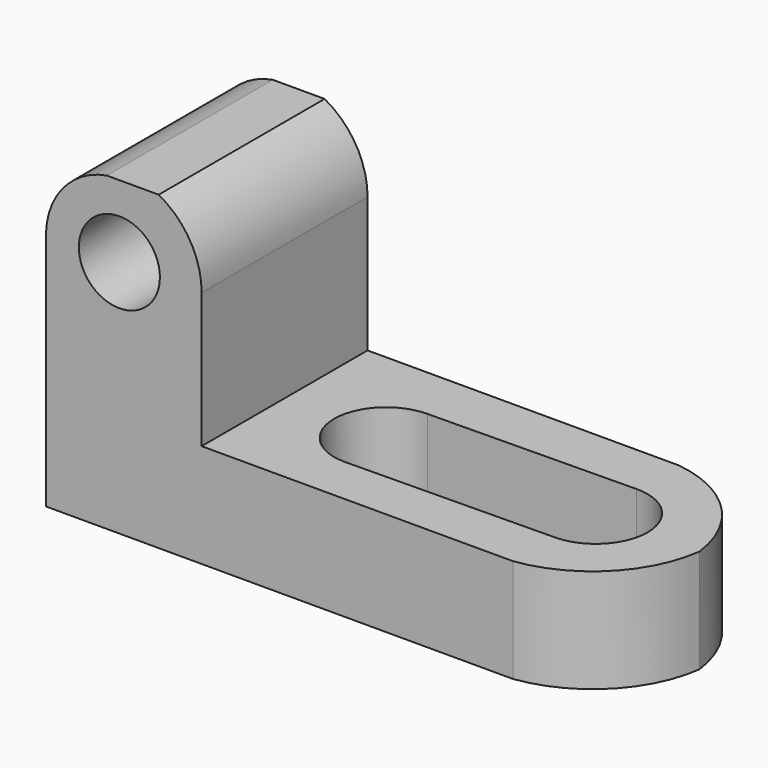
from build123d import *

# Parameters (mm, degrees)
F1_DEPTH = 25.4
F3_DEPTH = 12.7
F5_DEPTH = 12.7
F7_DEPTH = 25.4
F8_R     = 4.9638904574
F9_DEPTH = 25.4


with BuildPart() as f1:
    # F0 (on Front) → F1 (new body)
    with BuildSketch(Plane.XZ):
        Polygon((-69.85, 38.1), (-69.85, 0), (0, 0), (0, 12.7), (-50.8, 12.7), (-50.8, 38.1), align=None)
    extrude(amount=F1_DEPTH)

    # F2 (on face) → F3 (cut)
    with BuildSketch(Plane.XY.offset(12.7)):
        with BuildLine():
            ThreePointArc((-12.7, 0), (-4.1664394472, -4.1664394472), (0, -12.7))
            Line((0, -12.7), (0, 0))
            Line((0, 0), (-12.7, 0))
        make_face()
        with BuildLine():
            Line((0, -25.4), (0, -12.7))
            ThreePointArc((0, -12.7), (-4.1912343362, -21.2087656638), (-12.7, -25.4))
            Line((-12.7, -25.4), (0, -25.4))
        make_face()
    extrude(amount=-F3_DEPTH, mode=Mode.SUBTRACT)

    # F4 (on face) → F5 (cut)
    with BuildSketch(Plane.XY.offset(12.7)):
        with BuildLine():
            ThreePointArc((-38.0139607827, -19.3930226044), (-33.5795548322, -17.5032103821), (-31.75, -13.0436055246))
            ThreePointArc((-31.75, -13.0436055246), (-33.6098719395, -8.5534774641), (-38.1, -6.6936055246))
            ThreePointArc((-38.1, -6.6936055246), (-44.4498542683, -13.0866261206), (-38.0139607827, -19.3930226044))
        make_face()
        with BuildLine():
            ThreePointArc((-38.1, -6.6936055246), (-33.6098719395, -8.5534774641), (-31.75, -13.0436055246))
            ThreePointArc((-31.75, -13.0436055246), (-33.5795548322, -17.5032103821), (-38.0139607827, -19.3930226044))
            Line((-38.0139607827, -19.3930226044), (-12.7000078464, -19.05))
            ThreePointArc((-12.7000078464, -19.05), (-19.049854295, -12.7430166511), (-12.7860391738, -6.3505829196))
            Line((-12.7860391738, -6.3505829196), (-38.1, -6.6936055246))
        make_face()
        with BuildLine():
            ThreePointArc((-6.35, -12.7), (-8.240395127, -8.1795548475), (-12.7860391738, -6.3505829196))
            ThreePointArc((-12.7860391738, -6.3505829196), (-19.049854295, -12.7430166511), (-12.7000078464, -19.05))
            Line((-12.7000078464, -19.05), (-12.5279294485, -19.0476682117))
            ThreePointArc((-12.5279294485, -19.0476682117), (-8.1494424516, -17.1288741232), (-6.35, -12.7))
        make_face()
    extrude(amount=-F5_DEPTH, mode=Mode.SUBTRACT)

    # F6 (on face) → F7 (cut)
    with BuildSketch(Plane.XZ.offset(25.4)):
        with BuildLine():
            Line((-69.85, 38.1), (-69.85, 29.6156106257))
            ThreePointArc((-69.85, 29.6156106257), (-67.6293367073, 35.171111242), (-62.4123890172, 38.1))
            Line((-62.4123890172, 38.1), (-69.85, 38.1))
        make_face()
        with BuildLine():
            Line((-50.8, 38.1), (-56.0623890172, 38.1))
            ThreePointArc((-56.0623890172, 38.1), (-52.2149677191, 34.3977887072), (-50.8, 29.2493049055))
            Line((-50.8, 29.2493049055), (-50.8, 38.1))
        make_face()
    extrude(amount=-F7_DEPTH, mode=Mode.SUBTRACT)

    # F8 (on face) → F9 (cut)
    with BuildSketch(Plane.XZ.offset(25.4)):
        with Locations((-60.8740881639, 29.2493049055)):
            Circle(F8_R)
    extrude(amount=-F9_DEPTH, mode=Mode.SUBTRACT)


solid = f1.part
